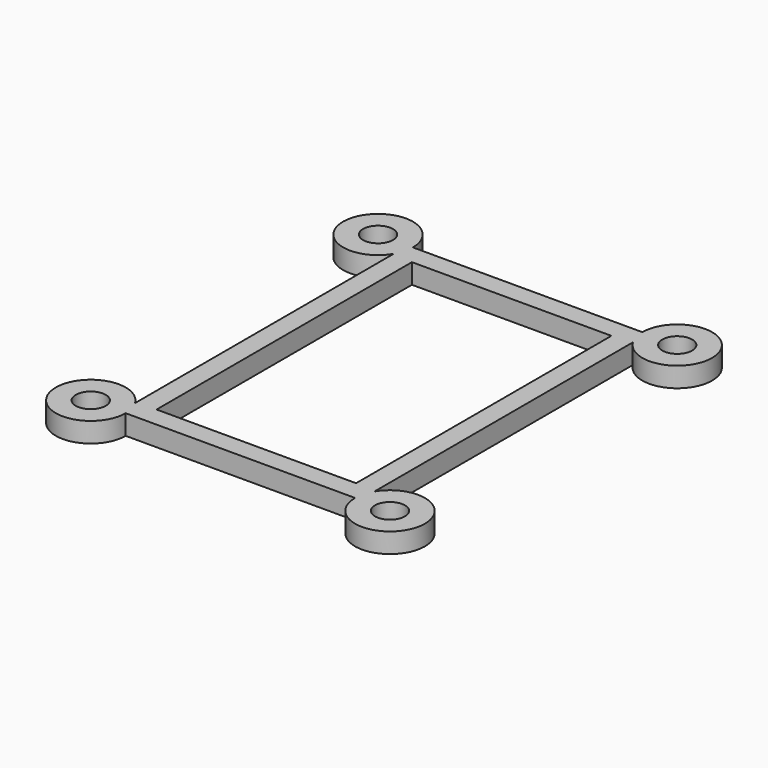
from build123d import *

# Parameters (mm, degrees)
F0_R     = 1.5
F0_W     = 20
F0_H     = 32
F1_DEPTH = 2


with BuildPart() as f1:
    # F0 (on Top) → F1 (new body)
    with BuildSketch(Plane.XY):
        with BuildLine():
            ThreePointArc((-12, 16.1972243623), (-11.6273156092, 17.0645856533), (-11.5, 18))
            Line((-11.5, 18), (-12, 18))
            Line((-12, 18), (-12, 16.1972243623))
        make_face()
        with BuildLine():
            Line((-12, 18), (-11.5, 18))
            ThreePointArc((-11.5, 18), (-18.3726843908, 18.9354143467), (-12, 16.1972243623))
            Line((-12, 16.1972243623), (-12, 18))
        make_face()
        with Locations((-15, 18)):
            Circle(F0_R, mode=Mode.SUBTRACT)
        with BuildLine():
            Line((11.5, 18), (-11.5, 18))
            ThreePointArc((-11.5, 18), (-11.6273156092, 17.0645856533), (-12, 16.1972243623))
            Line((-12, 16.1972243623), (-12, -16.1972243623))
            ThreePointArc((-12, -16.1972243623), (-11.6273156092, -17.0645856533), (-11.5, -18))
            Line((-11.5, -18), (11.5, -18))
            ThreePointArc((11.5, -18), (11.6273156092, -17.0645856533), (12, -16.1972243623))
            Line((12, -16.1972243623), (12, 16.1972243623))
            ThreePointArc((12, 16.1972243623), (11.6273156092, 17.0645856533), (11.5, 18))
        make_face()
        Rectangle(F0_W, F0_H, mode=Mode.SUBTRACT)
        with BuildLine():
            ThreePointArc((18.5, 18), (15, 21.5), (11.5, 18))
            Line((11.5, 18), (12, 18))
            Line((12, 18), (12, 16.1972243623))
            ThreePointArc((12, 16.1972243623), (15.9354143467, 14.6273156092), (18.5, 18))
        make_face()
        with Locations((15, 18)):
            Circle(F0_R, mode=Mode.SUBTRACT)
        with BuildLine():
            Line((12, 18), (11.5, 18))
            ThreePointArc((11.5, 18), (11.6273156092, 17.0645856533), (12, 16.1972243623))
            Line((12, 16.1972243623), (12, 18))
        make_face()
        with BuildLine():
            ThreePointArc((-11.5, -18), (-11.6273156092, -17.0645856533), (-12, -16.1972243623))
            Line((-12, -16.1972243623), (-12, -18))
            Line((-12, -18), (-11.5, -18))
        make_face()
        with BuildLine():
            Line((-12, -18), (-12, -16.1972243623))
            ThreePointArc((-12, -16.1972243623), (-18.3726843908, -18.9354143467), (-11.5, -18))
            Line((-11.5, -18), (-12, -18))
        make_face()
        with Locations((-15, -18)):
            Circle(F0_R, mode=Mode.SUBTRACT)
        with BuildLine():
            ThreePointArc((18.5, -18), (15.9354143467, -14.6273156092), (12, -16.1972243623))
            Line((12, -16.1972243623), (12, -18))
            Line((12, -18), (11.5, -18))
            ThreePointArc((11.5, -18), (15, -21.5), (18.5, -18))
        make_face()
        with Locations((15, -18)):
            Circle(F0_R, mode=Mode.SUBTRACT)
        with BuildLine():
            Line((12, -18), (12, -16.1972243623))
            ThreePointArc((12, -16.1972243623), (11.6273156092, -17.0645856533), (11.5, -18))
            Line((11.5, -18), (12, -18))
        make_face()
    extrude(amount=F1_DEPTH)


solid = f1.part
